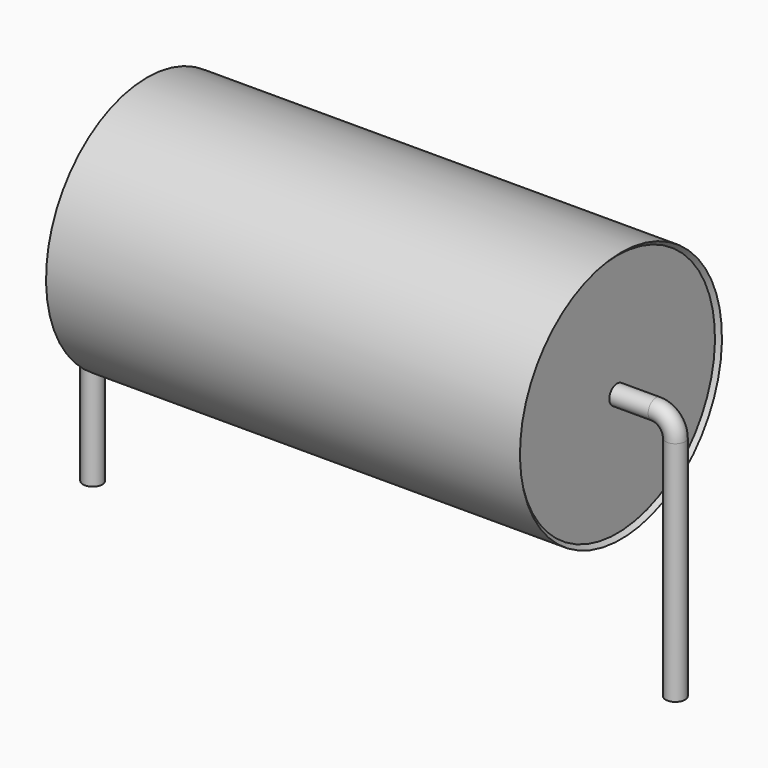
from build123d import *

# Parameters (mm, degrees)
SKETCH_R = 0.25


with BuildPart() as sweep_body:
    # Sweep: sweep along a path in Sketch001
    with BuildLine(Plane.XZ) as sweep_path:
        Line((0, -3), (0, 2.85))
        ThreePointArc((0, 2.85), (0.146444, 3.20355), (0.499992, 3.35))
        Line((0.499992, 3.35), (14.5, 3.35))
        ThreePointArc((14.5, 3.35), (14.853553, 3.203553), (15, 2.85))
        Line((15, 2.85), (15, -3))
    # Sketch → Sweep (sweep)
    with BuildSketch(Plane.XY.offset(-2)):
        Circle(SKETCH_R)
    sweep(path=sweep_path.line)


with BuildPart() as revolution:
    # Sketch002 → Revolution (revolve)
    with BuildSketch(Plane.XZ):
        Polygon((1.4, 6.6), (13.6, 6.6), (13.5, 6.5), (13.5, 3.35), (1.5, 3.35), (1.5, 6.5), align=None)
    revolve(axis=Axis((7.611803, 0, 3.35), (1, 0, 0)))


solid = Compound([sweep_body.part, revolution.part])
